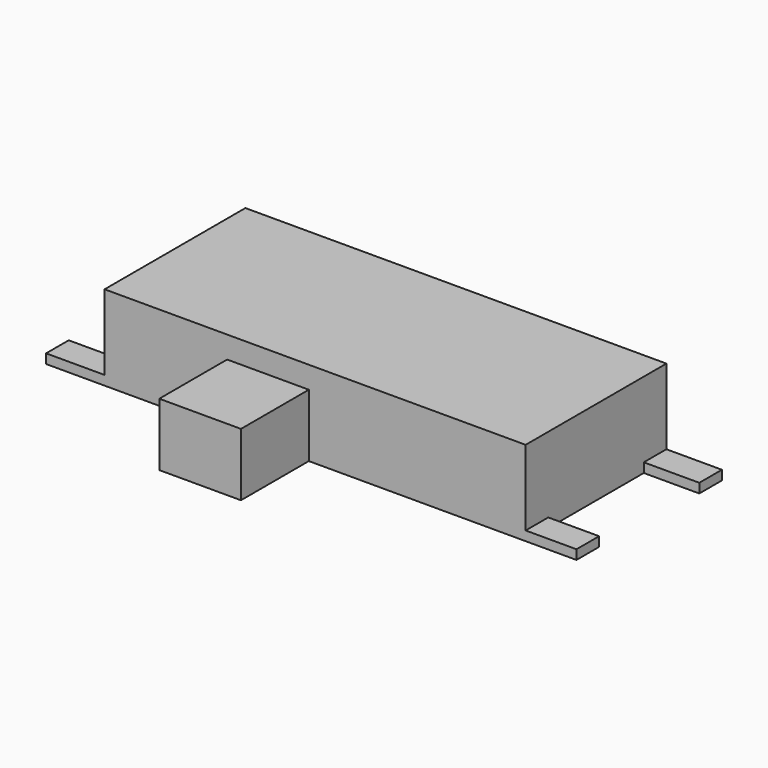
from build123d import *

# Parameters (mm, degrees)
F0_W     = 6.7
F0_H     = 2.8
F1_DEPTH = 1.35
F2_W     = 0.4
F2_H     = 0.992101
F2_H_2   = 1.01787
F2_H_3   = 1.082292
F2_W_2   = 0.883373
F2_H_4   = 0.45
F2_W_3   = 0.808923
F2_W_4   = 0.892466
F2_W_5   = 0.931122
F3_DEPTH = 0.15
F4_W     = 1.3
F4_H     = 1.35
F5_DEPTH = 1
F6_R     = 0.425
F7_DEPTH = 0.5


with BuildPart() as f1:
    # F0 (on Top) → F1 (new body)
    with BuildSketch(Plane.XY):
        with Locations((3.35, 1.4)):
            Rectangle(F0_W, F0_H)
    extrude(amount=F1_DEPTH)

    # F2 (on Top) → F3 (join)
    with BuildSketch(Plane.XY):
        with Locations((5.5, 3.29605)):
            Rectangle(F2_W, F2_H)
        with Locations((4.1, 3.308935)):
            Rectangle(F2_W, F2_H_2)
        with Locations((1.2, 3.341146)):
            Rectangle(F2_W, F2_H_3)
        with Locations((7.141686, 2.575)):
            Rectangle(F2_W_2, F2_H_4)
        with Locations((7.104461, 0.225)):
            Rectangle(F2_W_3, F2_H_4)
        with Locations((-0.446233, 2.575)):
            Rectangle(F2_W_4, F2_H_4)
        with Locations((-0.465561, 0.225)):
            Rectangle(F2_W_5, F2_H_4)
    extrude(amount=F3_DEPTH)

    # F4 (on Top) → F5 (join)
    with BuildSketch(Plane.XY):
        with Locations((2.6, -0.675)):
            Rectangle(F4_W, F4_H)
    extrude(amount=F5_DEPTH)

    # F6 (on face) → F7 (join)
    with BuildSketch(Plane(origin=(0, 0, 0), x_dir=(1, 0, 0), z_dir=(0, 0, -1))):
        with Locations((4.85, -1.4)):
            Circle(F6_R)
        with Locations((1.85, -1.4)):
            Circle(F6_R)
    extrude(amount=F7_DEPTH)


solid = f1.part
